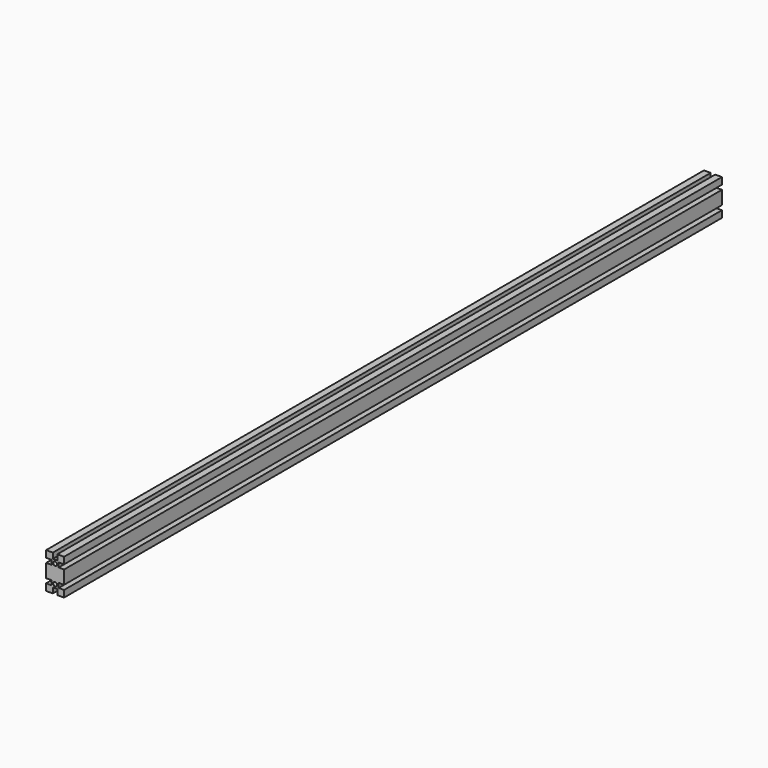
from build123d import *

# Parameters (mm, degrees)
F0_R     = 2.15
F1_DEPTH = 457.2


with BuildPart() as f1:
    # F0 (on Front) → F1 (new body, symmetric)
    with BuildSketch(Plane.XZ):
        Polygon((-10, 7.5), (-10, 0), (-10, -7.5), (-3.95, -7.5), (-3.95, -12.5), (-10, -12.5), (-10, -20), (-2.5, -20), (-2.5, -13.95), (2.5, -13.95), (2.5, -20), (10, -20), (10, -12.5), (3.95, -12.5), (3.95, -7.5), (10, -7.5), (10, 0), (10, 7.5), (3.95, 7.5), (3.95, 12.5), (10, 12.5), (10, 20), (2.5, 20), (2.5, 13.95), (-2.5, 13.95), (-2.5, 20), (-10, 20), (-10, 12.5), (-3.95, 12.5), (-3.95, 7.5), align=None)
        with Locations((0, -10)):
            Circle(F0_R, mode=Mode.SUBTRACT)
        with Locations((0, 10)):
            Circle(F0_R, mode=Mode.SUBTRACT)
    extrude(amount=F1_DEPTH, both=True)


solid = f1.part
